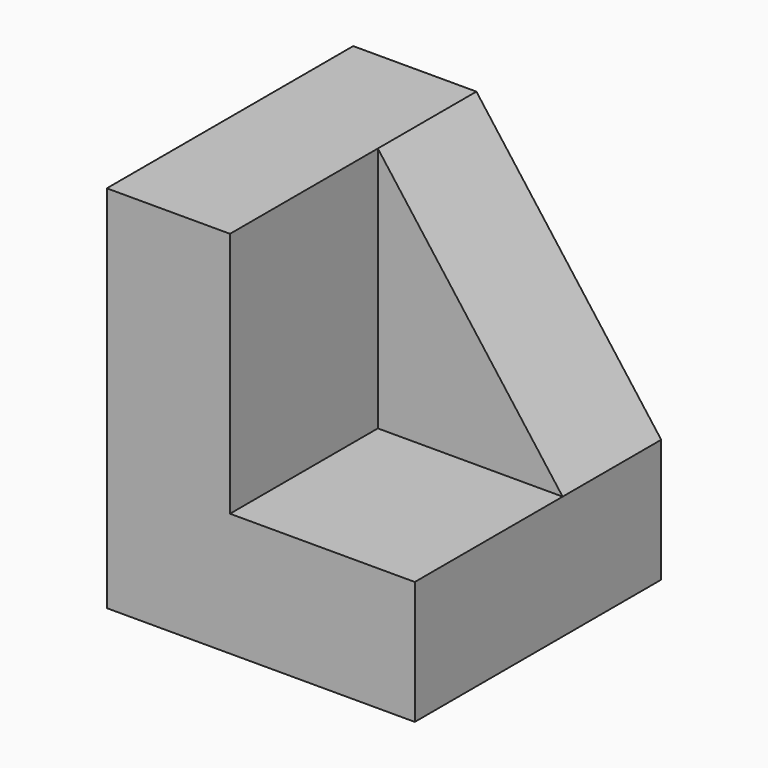
from build123d import *

# Parameters (mm, degrees)
F1_DEPTH = 50
F3_DEPTH = 20


with BuildPart() as f1:
    # F0 (on Front) → F1 (new body)
    with BuildSketch(Plane.XZ):
        Polygon((0, 60), (0, 0), (50, 0), (50, 20), (20, 20), (20, 60), align=None)
    extrude(amount=F1_DEPTH)

    # F2 (on face) → F3 (join)
    with BuildSketch(Plane(origin=(0, 0, 0), x_dir=(-1, 0, 0), z_dir=(0, 1, 0))):
        Polygon((-20, 20), (-20, 60), (-50, 20), align=None)
    extrude(amount=-F3_DEPTH)


solid = f1.part
